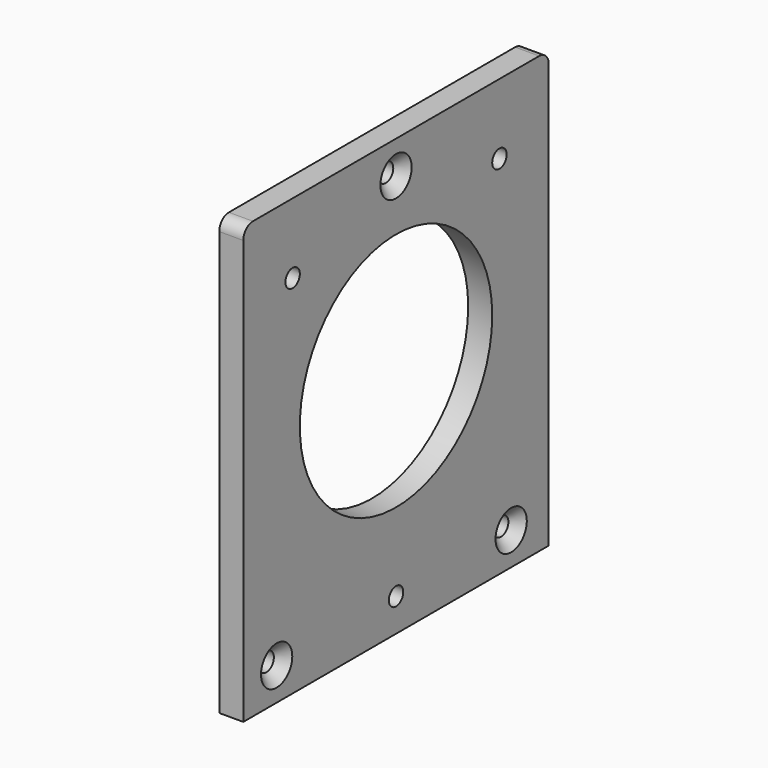
from build123d import *

# Parameters (mm, degrees)
F0_R     = 1.55
F0_R_2   = 1.5
F0_R_3   = 20
F1_DEPTH = 4
F2_SIZE  = 1.7


with BuildPart() as f1:
    # F0 (on Right) → F1 (new body)
    with BuildSketch(Plane.YZ):
        with BuildLine():
            ThreePointArc((31.75, 34.25), (31.164214, 35.664214), (29.75, 36.25))
            Line((29.75, 36.25), (-29.75, 36.25))
            ThreePointArc((-29.75, 36.25), (-31.164214, 35.664214), (-31.75, 34.25))
            Line((-31.75, 34.25), (-31.75, -36.25))
            Line((-31.75, -36.25), (31.75, -36.25))
            Line((31.75, -36.25), (31.75, 34.25))
        make_face()
        with Locations((-24.821896, -30.8)):
            Circle(F0_R, mode=Mode.SUBTRACT)
        with Locations((0, -30.75)):
            Circle(F0_R_2, mode=Mode.SUBTRACT)
        with Locations((23.940323, -30.8)):
            Circle(F0_R, mode=Mode.SUBTRACT)
        with Locations((-21.5, 24.58)):
            Circle(F0_R_2, mode=Mode.SUBTRACT)
        with Locations((0, 2.25)):
            Circle(F0_R_3, mode=Mode.SUBTRACT)
        with Locations((0, 30.75)):
            Circle(F0_R, mode=Mode.SUBTRACT)
        with Locations((21.5, 24.58)):
            Circle(F0_R_2, mode=Mode.SUBTRACT)
    extrude(amount=F1_DEPTH)

    # F2
    f2_edges = [f1.edges().sort_by_distance(p)[0] for p in [
        (4, -26.371896, -30.8),
        (4, 22.390323, -30.8),
        (4, -1.55, 30.75),
    ]]
    chamfer(f2_edges, length=F2_SIZE)


solid = f1.part
